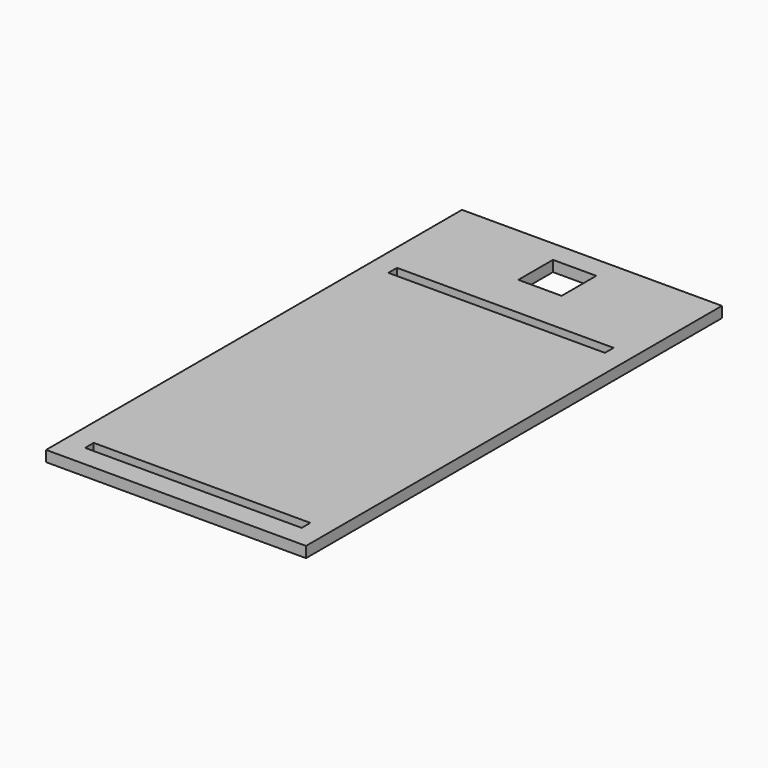
from build123d import *

# Parameters (mm, degrees)
F0_W     = 6.35
F0_H     = 6.35
F0_W_2   = 12.7
F0_W_3   = 63.5
F1_DEPTH = 3.175


with BuildPart() as f1:
    # F0 (on Top) → F1 (new body)
    with BuildSketch(Plane.XY):
        Polygon((-46.535994, 142.574984), (-46.535994, 117.174984), (-40.185994, 117.174984), (23.314006, 117.174984), (29.664006, 117.174984), (29.664006, 142.574984), (-2.085994, 142.574984), (-2.085994, 136.224984), (-2.085994, 123.524984), (-14.785994, 123.524984), (-14.785994, 136.224984), (-14.785994, 142.574984), align=None)
        with Locations((-43.360994, 113.999984)):
            Rectangle(F0_W, F0_H)
        Polygon((-40.185994, 110.824984), (-46.535994, 110.824984), (-46.535994, -3.475016), (-40.185994, -3.475016), (-40.185994, -0.300016), (23.314006, -0.300016), (23.314006, -3.475016), (29.664006, -3.475016), (29.664006, 110.824984), (23.314006, 110.824984), (23.314006, 107.649984), (-40.185994, 107.649984), align=None)
        with Locations((26.489006, 113.999984)):
            Rectangle(F0_W, F0_H)
        with Locations((-43.360994, -6.650016)):
            Rectangle(F0_W, F0_H)
        with Locations((-8.435994, 139.399984)):
            Rectangle(F0_W_2, F0_H)
        Polygon((23.314006, -3.475016), (-40.185994, -3.475016), (-40.185994, -9.825016), (4.264006, -9.825016), (23.314006, -9.825016), align=None)
        with Locations((26.489006, -6.650016)):
            Rectangle(F0_W, F0_H)
        with Locations((-8.435994, 113.999984)):
            Rectangle(F0_W_3, F0_H)
    extrude(amount=F1_DEPTH)


solid = f1.part
